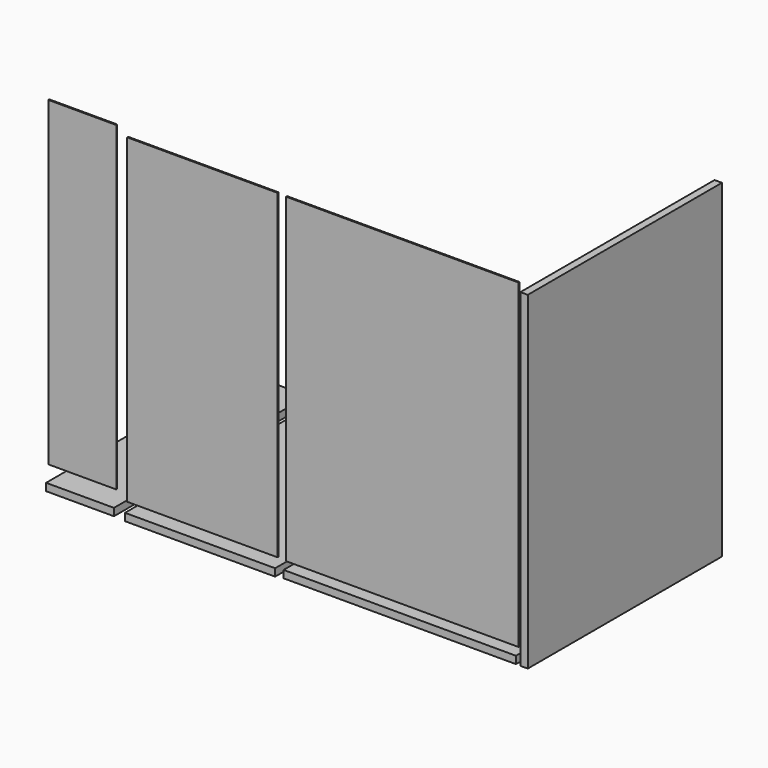
from build123d import *

# Parameters (mm, degrees)
F0_W      = 18
F0_H      = 590
F1_DEPTH  = 800
F2_W      = 565
F2_H      = 780
F3_DEPTH  = 3
F4_W      = 565
F4_H      = 589
F5_DEPTH  = 18
F11_W     = 365
F11_H     = 589
F13_DEPTH = 18
F15_W     = 365
F15_H     = 780
F16_DEPTH = 3
F18_W     = 165
F18_H     = 589
F19_DEPTH = 18
F22_W     = 165
F22_H     = 780
F23_DEPTH = 3


with BuildPart() as f1:
    # F0 (on Top) → F1 (new body)
    with BuildSketch(Plane.XY):
        with Locations((118.100998, -20.536937)):
            Rectangle(F0_W, F0_H)
    extrude(amount=F1_DEPTH)


with BuildPart() as f3:
    # F2 (on Front) → F3 (new body)
    with BuildSketch(Plane.XZ):
        with Locations((-282.5, -25.73579)):
            Rectangle(F2_W, F2_H)
    extrude(amount=F3_DEPTH)


with BuildPart() as f5:
    # F4 (on Top) → F5 (new body)
    with BuildSketch(Plane.XY):
        with Locations((-241.362563, 137.254515)):
            Rectangle(F4_W, F4_H)
    extrude(amount=F5_DEPTH)


with BuildPart() as f5_1:
    # F6: moved
    add(f5.part.moved(Location((-113, -67, -330))))


with BuildPart() as f5_2:
    # F7: moved
    add(f5_1.part.moved(Location((-127, 213, -119))))


with BuildPart() as f1_1:
    # F8: moved
    add(f1.part.moved(Location((-98, 304, -449))))


with BuildPart() as f9_1:
    # F9: copy of F5
    add(f5_2.part.moved(Location((0, 0, -52))))


with BuildPart() as f5_3:
    # F12: moved
    add(f5_2.part.moved(Location((199, 0, 0))))


with BuildPart() as f13:
    # F11 (on face) → F13 (new body)
    with BuildSketch(Plane.XY):
        with Locations((-828.30894, 73.046077)):
            Rectangle(F11_W, F11_H)
    extrude(amount=F13_DEPTH)


with BuildPart() as f13_1:
    # F14: moved
    add(f13.part.moved(Location((63, 207, -450))))


with BuildPart() as f16:
    # F15 (on face) → F16 (new body)
    with BuildSketch(Plane.XZ.offset(3)):
        with Locations((-942.60931, 329.669219)):
            Rectangle(F15_W, F15_H)
    extrude(amount=F16_DEPTH)


with BuildPart() as f16_1:
    # F17: moved
    add(f16.part.moved(Location((176, 0, -352))))


with BuildPart() as f19:
    # F18 (on Top) → F19 (new body)
    with BuildSketch(Plane.XY):
        with Locations((-1051.948011, 269.777077)):
            Rectangle(F18_W, F18_H)
    extrude(amount=F19_DEPTH)


with BuildPart() as f19_1:
    # F20: moved
    add(f19.part.moved(Location((-5, 10, 0))))


with BuildPart() as f19_2:
    # F21: moved
    add(f19_1.part.moved(Location((0, 0, -448))))


with BuildPart() as f23:
    # F22 (on Front) → F23 (new body)
    with BuildSketch(Plane.XZ):
        with Locations((-1060.727388, -6.603232)):
            Rectangle(F22_W, F22_H)
    extrude(amount=F23_DEPTH)


solid = Compound([f3.part, f1_1.part, f5_3.part, f13_1.part, f16_1.part, f19_2.part, f23.part])
